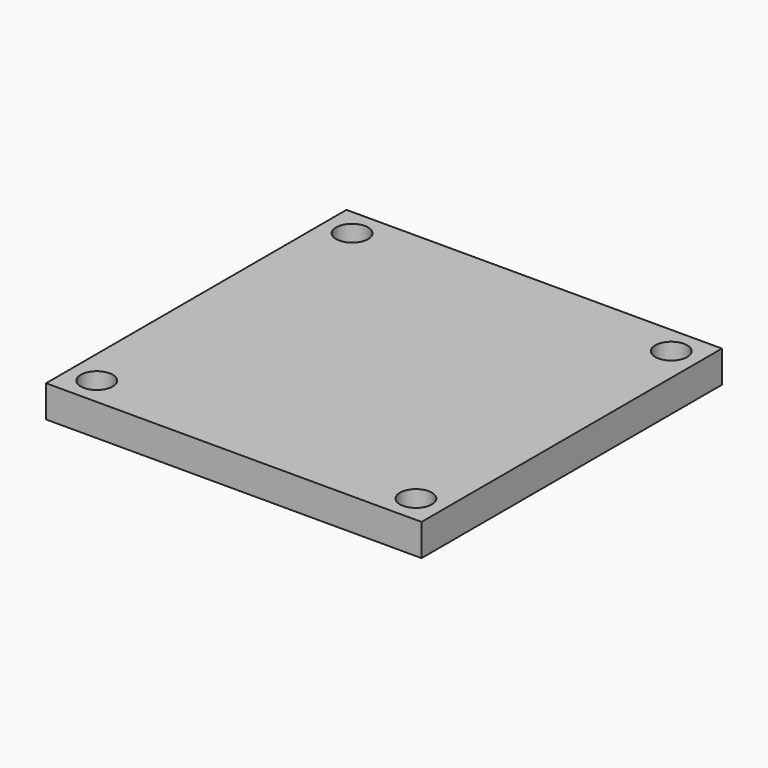
from build123d import *

# Parameters (mm, degrees)
F0_W     = 200
F0_H     = 200
F0_R     = 8.5
F1_DEPTH = 20
F2_W     = 265.768706
F2_H     = 235.001818
F3_DEPTH = 3


with BuildPart() as f1:
    # F0 (on Top) → F1 (new body)
    with BuildSketch(Plane.XY):
        Rectangle(F0_W, F0_H)
        with Locations((-85, -85)):
            Circle(F0_R, mode=Mode.SUBTRACT)
        with Locations((85, -85)):
            Circle(F0_R, mode=Mode.SUBTRACT)
        with Locations((-85, 85)):
            Circle(F0_R, mode=Mode.SUBTRACT)
        with Locations((85, 85)):
            Circle(F0_R, mode=Mode.SUBTRACT)
    extrude(amount=F1_DEPTH)

    # F2 (on face) → F3 (cut)
    with BuildSketch(Plane(origin=(0, 0, 0), x_dir=(1, 0, 0), z_dir=(0, 0, -1))):
        Rectangle(F2_W, F2_H)
    extrude(amount=-F3_DEPTH, mode=Mode.SUBTRACT)


solid = f1.part
